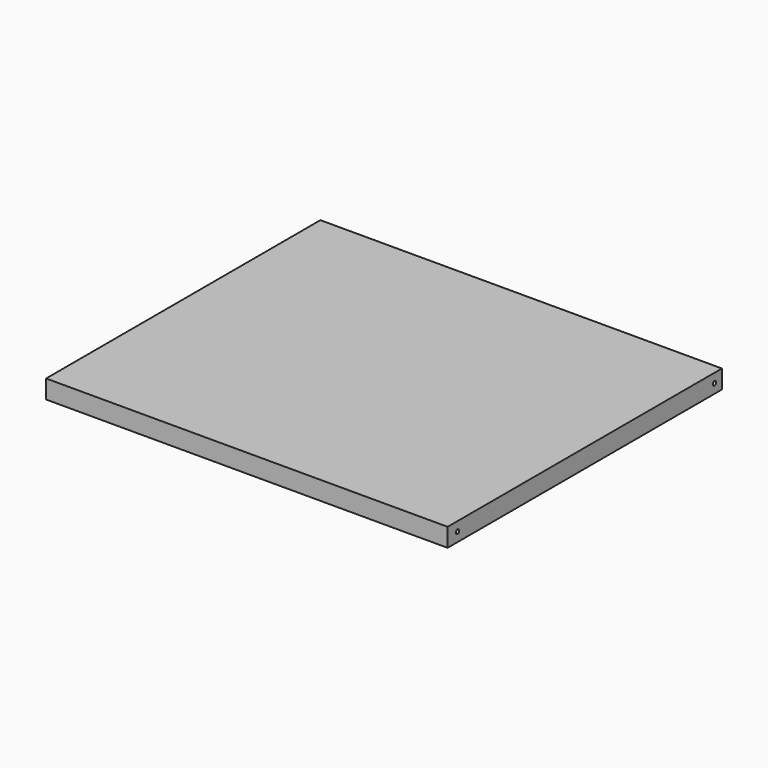
from build123d import *

# Parameters (mm, degrees)
F0_W           = 650
F0_H           = 555
F1_DEPTH       = 30
F4_D           = 6.8
F4_DEPTH       = 20
F4_TIP         = 2.0429261047
F4_ON_F3_D     = 6.8
F4_ON_F3_DEPTH = 20
F4_ON_F3_TIP   = 2.0429261047


with BuildPart() as f1:
    # F0 (on Top) → F1 (new body)
    with BuildSketch(Plane.XY):
        Rectangle(F0_W, F0_H)
    extrude(amount=F1_DEPTH)

    # F4
    with Locations(Plane(origin=(-325, 0, 0), x_dir=(0, -1, 0), z_dir=(-1, 0, 0))):
        with Locations((257.5, 15), (-262.5, 15)):
            Hole(F4_D / 2, depth=F4_DEPTH)
            with Locations((0, 0, -(F4_DEPTH + F4_TIP / 2))):  # 118° drill point
                Cone(0, F4_D / 2, F4_TIP, mode=Mode.SUBTRACT)

    # F4 on F3
    with Locations(Plane.YZ.offset(325)):
        with Locations((262.5, 15), (-257.5, 15)):
            Hole(F4_ON_F3_D / 2, depth=F4_ON_F3_DEPTH)
            with Locations((0, 0, -(F4_ON_F3_DEPTH + F4_ON_F3_TIP / 2))):  # 118° drill point
                Cone(0, F4_ON_F3_D / 2, F4_ON_F3_TIP, mode=Mode.SUBTRACT)


solid = f1.part
